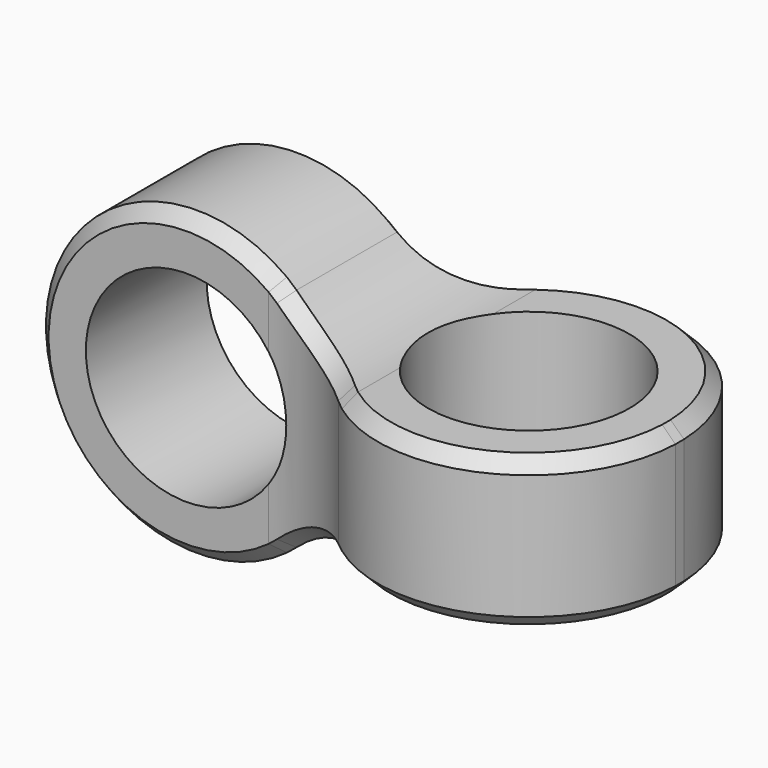
from build123d import *

# Parameters (mm, degrees)
SKETCH_R                = 10
PAD_DEPTH               = 20
FILLET_R                = 15
BODY001_ROLL_ANGLE      = -90
BODY001_PLACEMENT_ANGLE = 180
CHAMFER_SIZE            = 1.3


with BuildPart() as part1:
    # Sketch → Pad (new body, symmetric)
    with BuildSketch(Plane.XZ):
        with BuildLine():
            Line((12.990381, 7.5), (42.990381, 7.5))
            Line((42.990381, 7.5), (42.990381, -7.5))
            Line((42.990381, -7.5), (12.990381, -7.5))
            ThreePointArc((12.990381, 7.5), (-15, 0), (12.990381, -7.5))
        make_face()
        Circle(SKETCH_R, mode=Mode.SUBTRACT)
    extrude(amount=PAD_DEPTH, both=True)

    # Fillet
    fillet_edges = [part1.edges().sort_by_distance(p)[0] for p in [
        (12.990381, 0, 7.5),
        (12.990381, 0, -7.5),
    ]]
    fillet(fillet_edges, radius=FILLET_R)


with BuildPart() as part1clone1:
    # Body001 base: copy of part1
    add(part1.part)


with BuildPart() as part1clone1_1:
    # Body001 roll: moved
    add(part1clone1.part.rotate(Axis((0, 0, 0), (1, 0, 0)), BODY001_ROLL_ANGLE))


with BuildPart() as part1clone1_2:
    # Body001 placement: moved
    add(part1clone1_1.part.moved(Location((28, 0, 0))).rotate(Axis((28, 0, 0), (0, 0, 1)), BODY001_PLACEMENT_ANGLE))


with BuildPart() as chamfer_body:
    # Common base: copy of part1
    add(part1.part)

    # Common: intersect part1clone1
    add(part1clone1_2.part, mode=Mode.INTERSECT)

    # Chamfer
    chamfer_edges = [chamfer_body.edges().sort_by_distance(p)[0] for p in [
        (-6.926915, -7.5, 13.304805),
    ]]
    chamfer(chamfer_edges, length=CHAMFER_SIZE)


solid = chamfer_body.part
